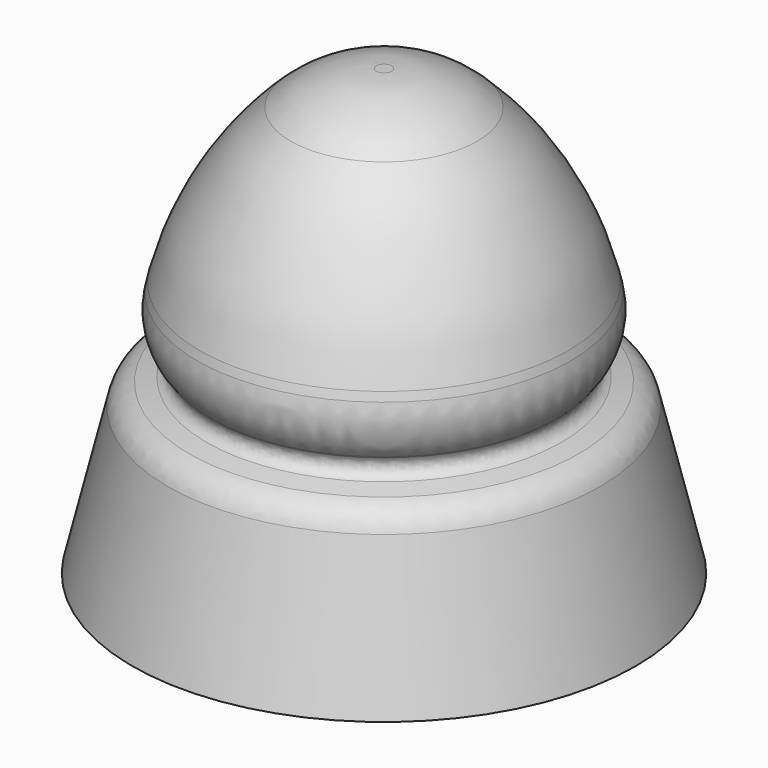
from build123d import *

# Parameters (mm, degrees)
F2_R = 12.85994464
F3_R = 1.1798499289
F4_R = 2.4039125508
F5_R = 0.4407061183
F6_R = 5


with BuildPart() as f1:
    # F0 (on Front) → F1 (revolve)
    with BuildSketch(Plane.XZ):
        Polygon((-10.0625008345, 0), (0, 0), (0, 17.7625007927), (-2.1874997765, 17.7625007927), (-6.3875010237, 14.0875000507), (-7.7875000425, 8.6625004187), (-6.3875010237, 7.0875007659), (-8.4875002503, 6.5625002608), align=None)
    revolve(axis=Axis((0, 0, 8.8812503964), (0, 0, -1)))

    # F2
    f2_edges = [f1.edges().sort_by_distance(p)[0] for p in [
        (6.387501, 0, 14.0875),
    ]]
    fillet(f2_edges, radius=F2_R)

    # F3
    f3_edges = [f1.edges().sort_by_distance(p)[0] for p in [
        (8.4875, 0, 6.5625),
    ]]
    fillet(f3_edges, radius=F3_R)

    # F4
    f4_edges = [f1.edges().sort_by_distance(p)[0] for p in [
        (7.7875, 0, 8.6625),
    ]]
    fillet(f4_edges, radius=F4_R)

    # F5
    f5_edges = [f1.edges().sort_by_distance(p)[0] for p in [
        (-6.661983, 0, 7.396293),
        (6.936463, 0, 7.705085),
        (6.387501, 0, 7.087501),
    ]]
    fillet(f5_edges, radius=F5_R)

    # F6
    f6_edges = [f1.edges().sort_by_distance(p)[0] for p in [
        (-2.792166, 0, 17.233418),
        (3.396831, 0, 16.704336),
        (2.1875, 0, 17.762501),
    ]]
    fillet(f6_edges, radius=F6_R)


solid = f1.part
